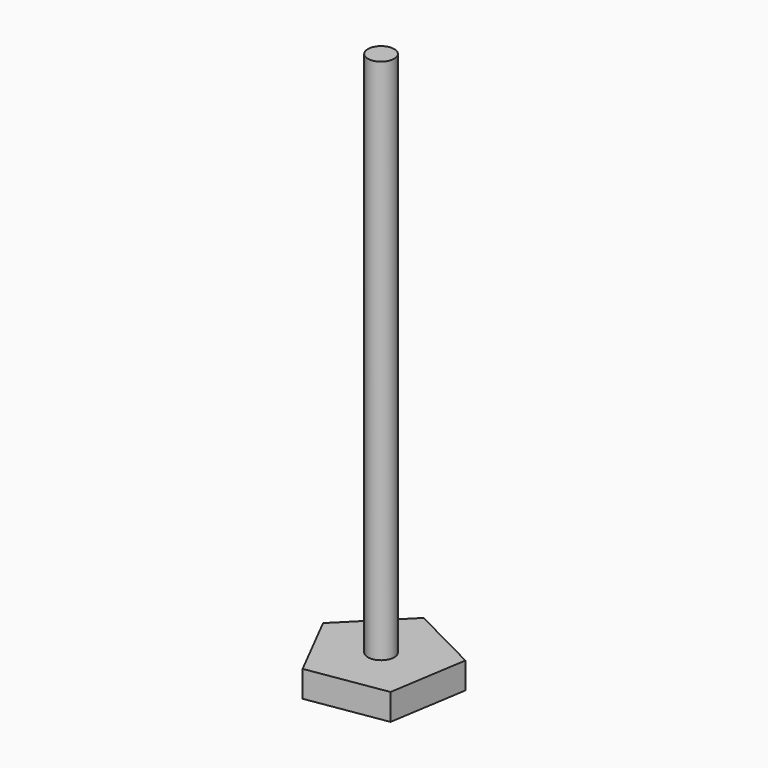
from build123d import *

# Parameters (mm, degrees)
F1_DEPTH = 12.7
F2_R     = 6.35
F3_DEPTH = 254


with BuildPart() as f1:
    # F0 (on Top) → F1 (new body)
    with BuildSketch(Plane.XY):
        Polygon((-14.71374, -28.877339), (22.917186, -22.917186), (28.87734, 14.713739), (-5.070009, 32.010777), (-32.010777, 5.070009), align=None)
    extrude(amount=F1_DEPTH)

    # F2 (on face) → F3 (join)
    with BuildSketch(Plane.XY.offset(12.7)):
        Circle(F2_R)
    extrude(amount=F3_DEPTH)


solid = f1.part
